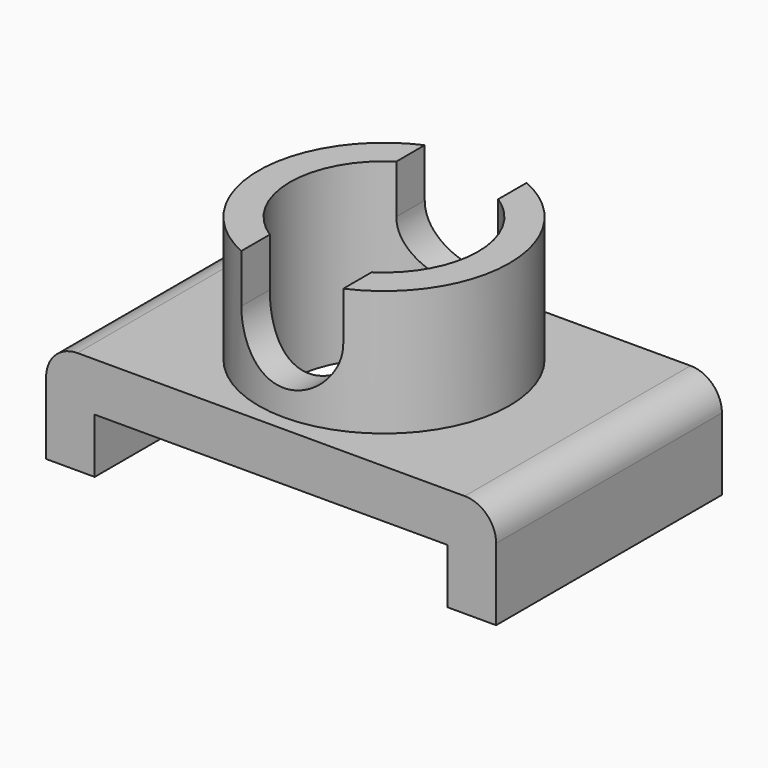
from build123d import *

# Parameters (mm, degrees)
F1_DEPTH  = 9
F2_R      = 2
F3_R      = 7
F4_DEPTH  = 3.1
F5_R      = 8
F5_R_2    = 5
F6_DEPTH  = 8
F7_R      = 7
F7_R_2    = 5
F8_DEPTH  = 3.1
F10_DEPTH = 12.5
F11_R     = 6
F12_DEPTH = 11.1010001


with BuildPart() as f1:
    # F0 (on Front) → F1 (new body, symmetric)
    with BuildSketch(Plane.XZ):
        Polygon((14.35, 0), (-14.35, 0), (-14.35, -6.6), (-11.25, -6.6), (-11.25, -3.1), (11.25, -3.1), (11.25, -6.6), (14.35, -6.6), align=None)
    extrude(amount=F1_DEPTH, both=True)

    # F2
    f2_edges = [f1.edges().sort_by_distance(p)[0] for p in [
        (-14.35, 0, 0),
        (14.35, 0, 0),
    ]]
    fillet(f2_edges, radius=F2_R)

    # F3 (on face) → F4 (cut, through all)
    with BuildSketch(Plane.XY):
        Circle(F3_R)
    extrude(amount=-F4_DEPTH, mode=Mode.SUBTRACT)


with BuildPart() as f6:
    # F5 (on face) → F6 (new body)
    with BuildSketch(Plane.XY):
        Circle(F5_R)
        Circle(F5_R_2, mode=Mode.SUBTRACT)
    extrude(amount=F6_DEPTH)

    # F7 (on face) → F8 (join, through all)
    with BuildSketch(Plane(origin=(0, 0, 0), x_dir=(1, 0, 0), z_dir=(0, 0, -1))):
        Circle(F7_R)
        Circle(F7_R_2, mode=Mode.SUBTRACT)
    extrude(amount=F8_DEPTH)

    # F9 (on Front) → F10 (cut, symmetric)
    with BuildSketch(Plane.XZ):
        with BuildLine():
            Line((-3.25, 8), (-3.25, 4.9))
            ThreePointArc((-3.25, 4.9), (0, 1.65), (3.25, 4.9))
            Line((3.25, 4.9), (3.25, 8))
            Line((3.25, 8), (-3.25, 8))
        make_face()
    extrude(amount=F10_DEPTH, both=True, mode=Mode.SUBTRACT)

    # F11 (on face) → F12 (cut, through all)
    with BuildSketch(Plane(origin=(0, 0, -3.1), x_dir=(1, 0, 0), z_dir=(0, 0, -1))):
        Circle(F11_R)
    extrude(amount=-F12_DEPTH, mode=Mode.SUBTRACT)


solid = Compound([f1.part, f6.part])
